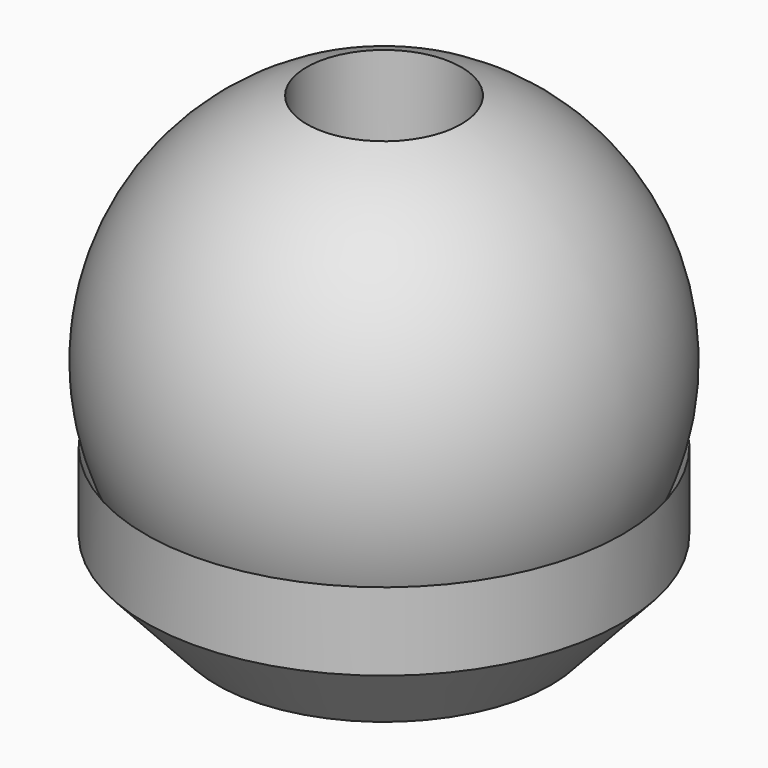
from build123d import *


with BuildPart() as f1:
    # F0 (on Front) → F1 (revolve)
    with BuildSketch(Plane.XZ):
        with BuildLine():
            Line((2.9, 14.818759), (2.9, 0.818759))
            Line((2.9, 0.818759), (6, 0.818759))
            ThreePointArc((6, 0.818759), (17.497998, 17.522741), (5.5, 33.871289))
            Line((5.5, 33.871289), (5.5, 14.818759))
            Line((5.5, 14.818759), (2.9, 14.818759))
        make_face()
        with BuildLine():
            ThreePointArc((16.97343, 11.896822), (13.125561, 5.234746), (6.825687, 0.818759))
            Line((6.825687, 0.818759), (11.899558, 0.818759))
            Line((11.899558, 0.818759), (16.97343, 6.357791))
            Line((16.97343, 6.357791), (16.97343, 11.896822))
        make_face()
    revolve(axis=Axis((0, 0, 11.062241), (0, 0, 1)))


solid = f1.part
